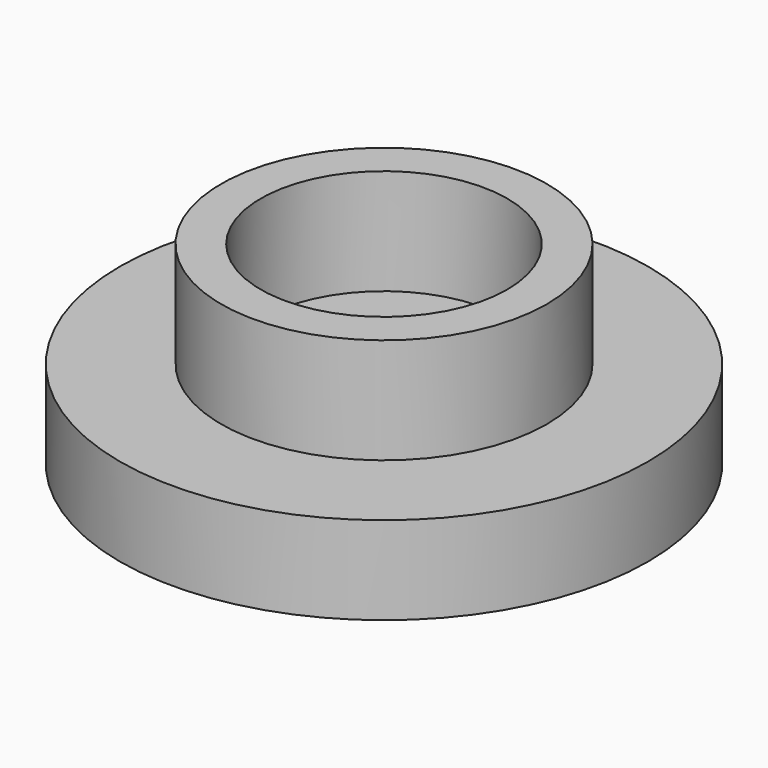
from build123d import *

# Parameters (mm, degrees)
F0_R     = 7.5
F0_R_2   = 4.625
F0_R_3   = 3.5
F1_DEPTH = 2.5
F2_DEPTH = 3


with BuildPart() as f1:
    # F0 (on Top) → F1 (new body)
    with BuildSketch(Plane.XY):
        Circle(F0_R)
        Circle(F0_R_2, mode=Mode.SUBTRACT)
        Circle(F0_R_2)
        Circle(F0_R_3, mode=Mode.SUBTRACT)
        Circle(F0_R_3)
    extrude(amount=-F1_DEPTH)

    # F0 (on Top) → F2 (join)
    with BuildSketch(Plane.XY):
        Circle(F0_R_2)
        Circle(F0_R_3, mode=Mode.SUBTRACT)
    extrude(amount=F2_DEPTH)


solid = f1.part
